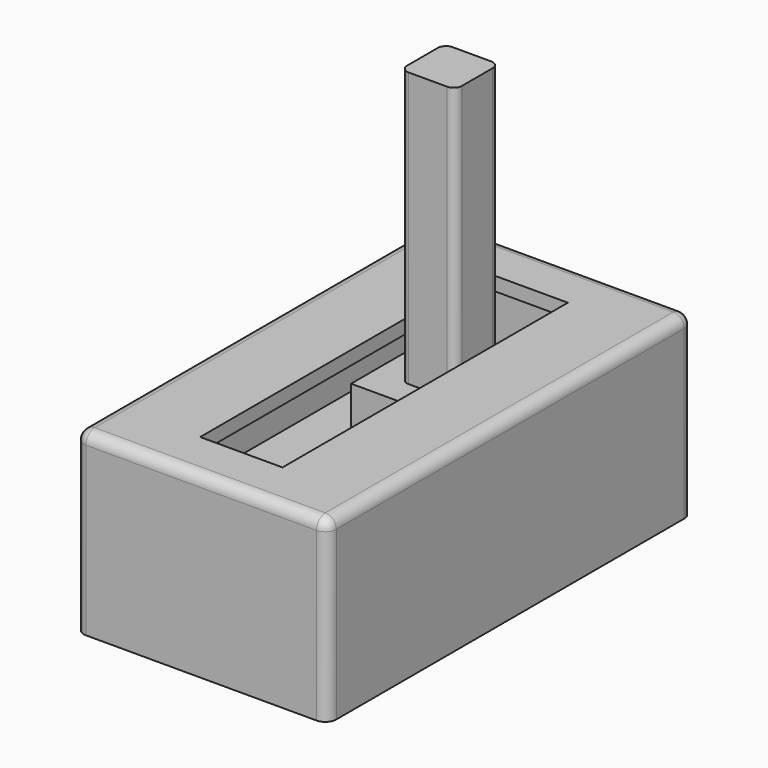
from build123d import *

# Parameters (mm, degrees)
SKETCH_W      = 9.2
SKETCH_H      = 16.65
PAD_DEPTH     = 3
SKETCH001_W   = 9.2
SKETCH001_H   = 16.65
SKETCH001_W_2 = 8.2
SKETCH001_H_2 = 15.65
PAD001_DEPTH  = 3
SKETCH002_W   = 9.2
SKETCH002_H   = 16.65
SKETCH002_W_2 = 3
SKETCH002_H_2 = 13
PAD002_DEPTH  = 0.5
FILLET_R      = 0.4
SKETCH003_W   = 4
SKETCH003_H   = 4
PAD003_DEPTH  = 2
SKETCH004_W   = 2
SKETCH004_H   = 2
PAD004_DEPTH  = 10
FILLET001_R   = 0.3


with BuildPart() as part:
    # Sketch → Pad (new body)
    with BuildSketch(Plane.XY):
        Rectangle(SKETCH_W, SKETCH_H)
    extrude(amount=PAD_DEPTH)

    # Sketch001 (on Face6 of Pad) → Pad001 (join)
    with BuildSketch(Plane.XY.offset(3)):
        Rectangle(SKETCH001_W, SKETCH001_H)
        Rectangle(SKETCH001_W_2, SKETCH001_H_2, mode=Mode.SUBTRACT)
    extrude(amount=PAD001_DEPTH)

    # Sketch002 (on Face9 of Pad001) → Pad002 (join)
    with BuildSketch(Plane.XY.offset(6)):
        Rectangle(SKETCH002_W, SKETCH002_H)
        Rectangle(SKETCH002_W_2, SKETCH002_H_2, mode=Mode.SUBTRACT)
    extrude(amount=PAD002_DEPTH)

    # Fillet
    fillet_edges = [part.edges().sort_by_distance(p)[0] for p in [
        (4.6, -8.325, 1.5),
        (-4.6, -8.325, 1.5),
        (-4.6, 8.325, 1.5),
        (4.6, 8.325, 1.5),
        (0, 8.325, 6.5),
        (4.6, 0, 6.5),
        (-4.6, 0, 6.5),
        (0, -8.325, 6.5),
    ]]
    fillet(fillet_edges, radius=FILLET_R)

    # Sketch003 (on Face44 of Fillet) → Pad003 (join)
    with BuildSketch(Plane.XY.offset(3)):
        with Locations((0, 3)):
            Rectangle(SKETCH003_W, SKETCH003_H)
    extrude(amount=PAD003_DEPTH)

    # Sketch004 (on Face49 of Pad003) → Pad004 (join)
    with BuildSketch(Plane.XY.offset(5)):
        with Locations((0, 3)):
            Rectangle(SKETCH004_W, SKETCH004_H)
    extrude(amount=PAD004_DEPTH)

    # Fillet001
    fillet001_edges = [part.edges().sort_by_distance(p)[0] for p in [
        (-1, 4, 10),
        (-1, 2, 10),
        (1, 4, 10),
        (1, 2, 10),
    ]]
    fillet(fillet001_edges, radius=FILLET001_R)


solid = part.part
